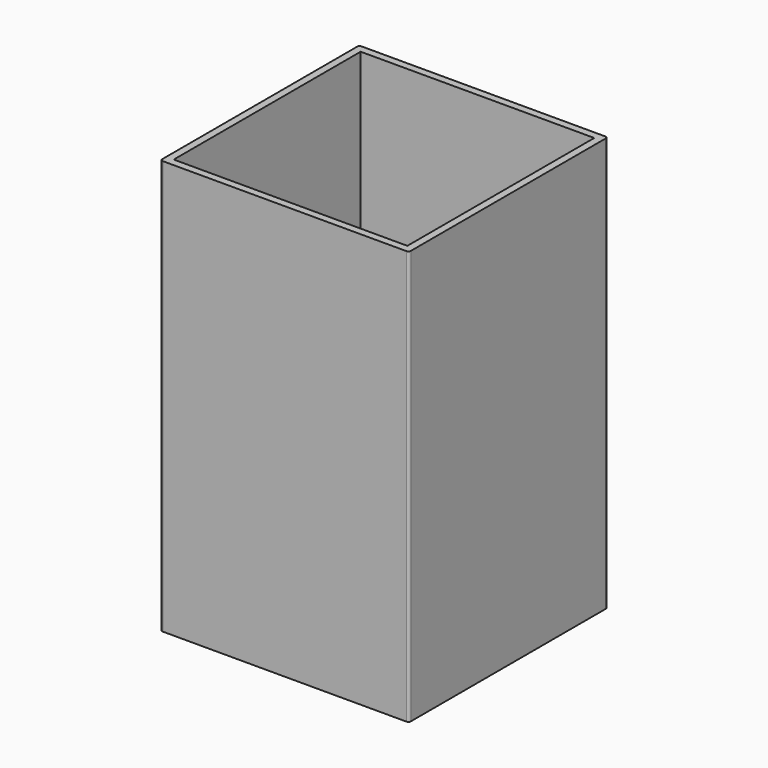
from build123d import *

# Parameters (mm, degrees)
F0_W     = 30
F0_H     = 50
F1_DEPTH = 30
F2_W     = 28.2
F2_H     = 28.2
F3_DEPTH = 50.001
F4_R     = 0.3


with BuildPart() as f1:
    # F0 (on Front) → F1 (new body)
    with BuildSketch(Plane.XZ):
        with Locations((0.765305, 25)):
            Rectangle(F0_W, F0_H)
    extrude(amount=F1_DEPTH)

    # F2 (on face) → F3 (cut, through all)
    with BuildSketch(Plane.XY.offset(50)):
        with Locations((0.765305, -15)):
            Rectangle(F2_W, F2_H)
    extrude(amount=-F3_DEPTH, mode=Mode.SUBTRACT)

    # F4
    f4_edges = [f1.edges().sort_by_distance(p)[0] for p in [
        (15.765305, -30, 25),
        (15.765305, 0, 25),
        (-14.234695, 0, 25),
        (-14.234695, -30, 25),
    ]]
    fillet(f4_edges, radius=F4_R)


solid = f1.part
